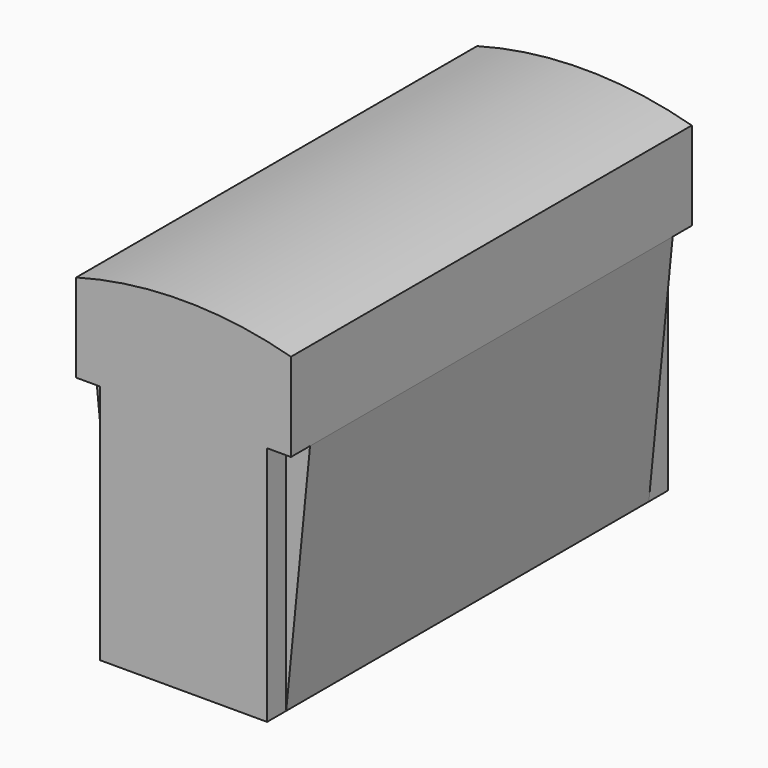
from build123d import *

# Parameters (mm, degrees)
F1_DEPTH        = 533.4
F3_DEPTH        = 25.4
F5_DEPTH        = 25.4
F7_DEPTH        = 25.4
F8_W            = 127
F8_H            = 139.7
F10_DEPTH       = 25.4
F13_D           = 20.32
F13_DEPTH       = 50.8
F13_CBORE_D     = 27.94
F13_CBORE_DEPTH = 5.08
F13_TIP         = 6.1047438893
F14_R           = 6.35
F15_DEPTH       = 5.08
F16_R           = 2.54
F17_DEPTH       = 5.08
F18_R           = 2.54
F19_DEPTH       = 5.08
F20_R           = 2.54
F21_DEPTH       = 5.08
F22_R           = 2.54
F23_DEPTH       = 5.08
F25_DEPTH       = 533.4


with BuildPart() as f1:
    # F0 (on Front) → F1 (new body)
    with BuildSketch(Plane.XZ):
        Polygon((73.373222708, 160.7664102355), (-155.226777292, 160.7664102355), (-155.226777292, 66.7864102355), (-153.6675693713, 51.0384102355), (-129.826777292, 51.0384102355), (-129.826777292, -189.7535897645), (47.973222708, -189.7535897645), (47.973222708, 51.0384102355), (71.8140147872, 51.0384102355), (73.373222708, 66.7864102355), align=None)
        Polygon((-129.826777292, 51.0384102355), (-153.6675693713, 51.0384102355), (-129.826777292, -189.7535897645), align=None)
        Polygon((47.973222708, -189.7535897645), (71.8140147872, 51.0384102355), (47.973222708, 51.0384102355), align=None)
    extrude(amount=F1_DEPTH)

    # F2 (on face) → F3 (cut)
    with BuildSketch(Plane.XZ.offset(533.4)):
        Polygon((-129.826777292, 66.7864102355), (-155.226777292, 66.7864102355), (-129.826777292, -189.7535897645), align=None)
    extrude(amount=-F3_DEPTH, mode=Mode.SUBTRACT)

    # F4 (on face) → F5 (cut)
    with BuildSketch(Plane.XZ.offset(533.4)):
        Polygon((47.973222708, 66.7864102355), (47.973222708, -189.7535897645), (73.373222708, 66.7864102355), align=None)
    extrude(amount=-F5_DEPTH, mode=Mode.SUBTRACT)

    # F6 (on face) → F7 (cut)
    with BuildSketch(Plane(origin=(0, 0, 0), x_dir=(-1, 0, 0), z_dir=(0, 1, 0))):
        Polygon((-47.973222708, 66.7864102355), (-73.373222708, 66.7864102355), (-47.973222708, -189.7535897645), align=None)
        Polygon((129.826777292, 66.7864102355), (129.826777292, -189.7535897645), (155.226777292, 66.7864102355), align=None)
    extrude(amount=-F7_DEPTH, mode=Mode.SUBTRACT)

    # F8 (on face) → F10 (cut)
    with BuildSketch(Plane(origin=(0, 0, -189.7535897645), x_dir=(1, 0, 0), z_dir=(0, 0, -1))):
        with Locations((-40.926777292, 95.25)):
            Rectangle(F8_W, F8_H)
    extrude(amount=-F10_DEPTH, mode=Mode.SUBTRACT)

    # F13
    with Locations(Plane(origin=(0, 0, -164.3535897645), x_dir=(1, 0, 0), z_dir=(0, 0, -1))):
        with Locations((-40.926777292, 95.25)):
            CounterBoreHole(F13_D / 2, F13_CBORE_D / 2, F13_CBORE_DEPTH, depth=F13_DEPTH)
            with Locations((0, 0, -(F13_DEPTH + F13_TIP / 2))):  # 118° drill point
                Cone(0, F13_D / 2, F13_TIP, mode=Mode.SUBTRACT)

    # F14 (on offset) → F15 (join)
    with BuildSketch(Plane(origin=(0, 0, -164.3535897645), x_dir=(1, 0, 0), z_dir=(0, 0, -1))):
        with Locations((-40.926777292, 132.08)):
            Circle(F14_R)
        with Locations((-40.926777292, 58.42)):
            Circle(F14_R)
    extrude(amount=F15_DEPTH)

    # F16 (on face) → F17 (join)
    with BuildSketch(Plane(origin=(0, 0, 66.7864102355), x_dir=(1, 0, 0), z_dir=(0, 0, -1))):
        with Locations((60.673222708, 12.7)):
            Circle(F16_R)
    extrude(amount=F17_DEPTH)

    # F18 (on face) → F19 (join)
    with BuildSketch(Plane(origin=(0, 0, 66.7864102355), x_dir=(1, 0, 0), z_dir=(0, 0, -1))):
        with Locations((-141.6487544775, 12.7)):
            Circle(F18_R)
    extrude(amount=F19_DEPTH)

    # F20 (on face) → F21 (join)
    with BuildSketch(Plane(origin=(0, 0, 66.7864102355), x_dir=(1, 0, 0), z_dir=(0, 0, -1))):
        with Locations((60.673222708, 520.7)):
            Circle(F20_R)
    extrude(amount=F21_DEPTH)

    # F22 (on face) → F23 (join)
    with BuildSketch(Plane(origin=(0, 0, 66.7864102355), x_dir=(1, 0, 0), z_dir=(0, 0, -1))):
        with Locations((-142.526777292, 520.7)):
            Circle(F22_R)
    extrude(amount=F23_DEPTH)

    # F24 (on face) → F25 (join)
    with BuildSketch(Plane(origin=(0, 0, 0), x_dir=(-1, 0, 0), z_dir=(0, 1, 0))):
        with BuildLine():
            Line((-73.373222708, 160.7664102355), (155.226777292, 160.7664102355))
            ThreePointArc((155.226777292, 160.7664102355), (40.926777292, 176.1690639423), (-73.373222708, 160.7664102355))
        make_face()
    extrude(amount=-F25_DEPTH)


solid = f1.part
